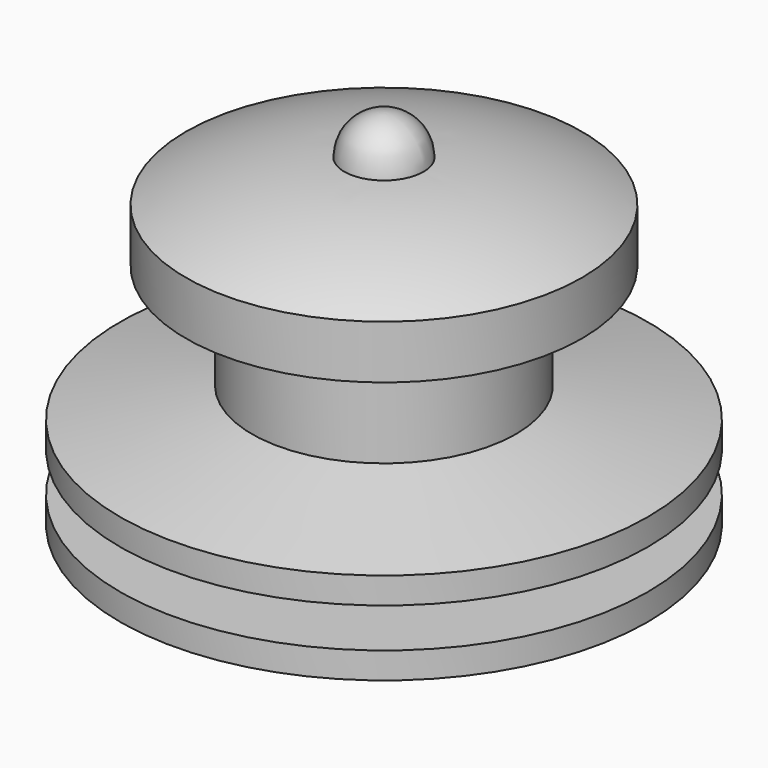
from build123d import *


with BuildPart() as f1:
    # F0 (on Front) → F1 (revolve)
    with BuildSketch(Plane.XZ):
        with BuildLine():
            ThreePointArc((7.5, 11.91419), (4.58291, 13.020789), (1.5, 13.5))
            ThreePointArc((1.5, 13.5), (1.06066, 14.56066), (0, 15))
            Line((0, 15), (0, 13.5))
            Line((0, 13.5), (0, 5.25))
            ThreePointArc((0, 5.25), (1.822876, 4.072876), (1.5, 1.927124))
            Line((1.5, 1.927124), (1.5, 0))
            Line((1.5, 0), (4.5, 0))
            Line((4.5, 0), (4.5, 2.25))
            Line((4.5, 2.25), (4.5, 3.75))
            Line((4.5, 3.75), (10, 3.75))
            Line((10, 3.75), (10, 4.75))
            Line((10, 4.75), (5, 5.886364))
            Line((5, 5.886364), (5, 9.886364))
            Line((5, 9.886364), (7.5, 9.886364))
            Line((7.5, 9.886364), (7.5, 11.91419))
        make_face()
        Polygon((4.5, 2.25), (4.5, 0), (10, 1.25), (10, 2.25), align=None)
    revolve(axis=Axis((0, 0, 9.375), (0, 0, -1)))


solid = f1.part
